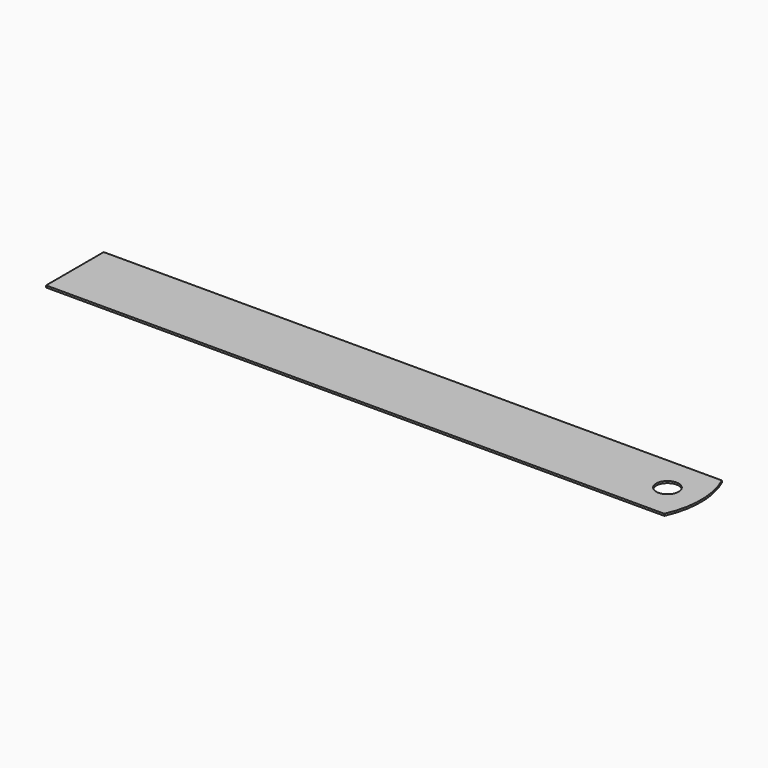
from build123d import *

# Parameters (mm, degrees)
SKETCH_R  = 4.05
PAD_DEPTH = 0.7


with BuildPart() as part:
    # Sketch → Pad (new body)
    with BuildSketch(Plane.XY):
        with BuildLine():
            Line((223.053652, 13), (0, 13))
            Line((0, 13), (0, -13))
            Line((0, -13), (223.053652, -13))
            ThreePointArc((223.053652, -13), (225.89, 0), (223.053652, 13))
        make_face()
        with Locations((213.8, 0)):
            Circle(SKETCH_R, mode=Mode.SUBTRACT)
    extrude(amount=PAD_DEPTH)


solid = part.part
